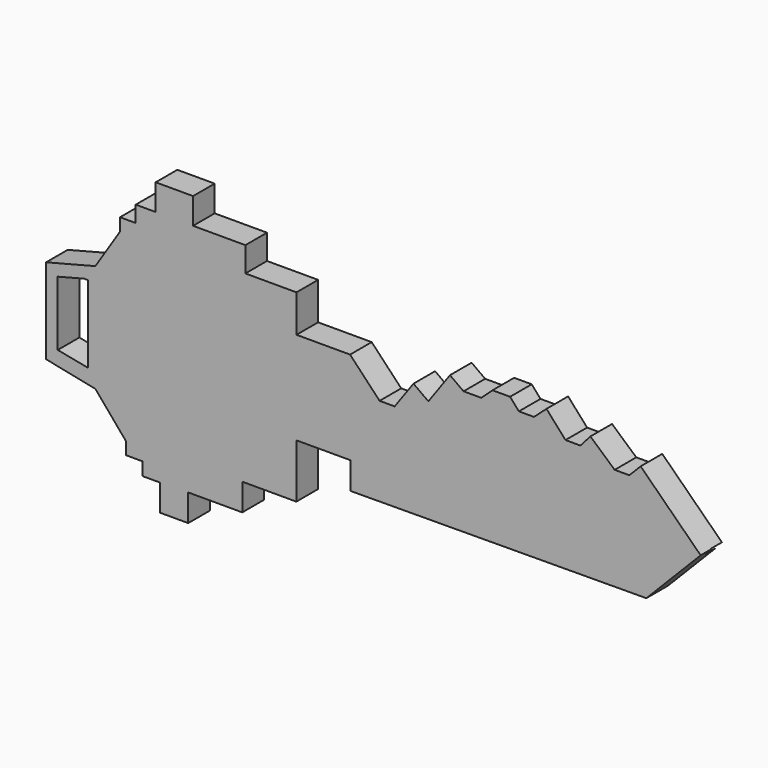
from build123d import *

# Parameters (mm, degrees)
F2_DEPTH = 1.5875
F4_DEPTH = 1.5875
F5_DEPTH = 0.79375


with BuildPart() as f2:
    # F0 (on Front) → F2 (new body)
    with BuildSketch(Plane.XZ):
        Polygon((9.796584, 23.349988), (9.796584, 21.762488), (27.18009, 21.868323), (30.369195, 25.123497), (26.843533, 28.5776), (26.180675, 27.901009), (25.318117, 27.901009), (23.894507, 29.16527), (23.305416, 28.501929), (22.430886, 28.501929), (21.314058, 29.752675), (20.577589, 29.095061), (19.692793, 29.095061), (19.176317, 29.681733), (18.144356, 29.681733), (17.481392, 29.075808), (16.444386, 29.075808), (15.645858, 29.650049), (14.37626, 27.884573), (13.501141, 28.513893), (12.396776, 26.978187), (11.511933, 26.978187), (9.777895, 28.805975), (6.630678, 28.805975), (6.630678, 31.001708), (3.629841, 31.001708), (3.629841, 32.465532), (0.555814, 32.465532), (0.555814, 34.002542), (-1.63992, 34.002542), (-1.63992, 32.465532), (-2.810978, 32.465532), (-2.810978, 31.514045), (-3.735324, 31.514045), (-3.735324, 30.767458), (-5.180371, 28.516009), (-5.180371, 22.166009), (-3.396362, 20.060986), (-3.375214, 19.322162), (-2.425008, 19.322162), (-2.425008, 18.557757), (-1.376822, 18.557757), (-1.376822, 16.999988), (0.271584, 16.999988), (0.271584, 18.587488), (3.446584, 18.587488), (3.446584, 20.174988), (6.621584, 20.174988), (6.621584, 23.349988), align=None)
        Polygon((-8.077298, 22.759162), (-5.180371, 22.166009), (-5.180371, 28.516009), (-8.077298, 27.770618), (-8.077298, 27.149362), align=None)
    extrude(amount=F2_DEPTH)

    # F3 (on face) → F4 (cut)
    with BuildSketch(Plane.XZ.offset(1.5875)):
        Polygon((-5.609657, 27.647099), (-5.833327, 27.652194), (-7.391887, 27.251171), (-7.391887, 23.460561), (-5.609657, 23.115788), align=None)
    extrude(amount=-F4_DEPTH, mode=Mode.SUBTRACT)

    # F1 (on face) → F5 (cut)
    with BuildSketch(Plane.XZ):
        Polygon((30.482488, 25.144005), (28.022444, 25.144005), (10.450701, 25.144005), (11.739296, 24.206847), (29.369611, 24.206847), align=None)
    extrude(amount=F5_DEPTH, mode=Mode.SUBTRACT)


solid = f2.part
